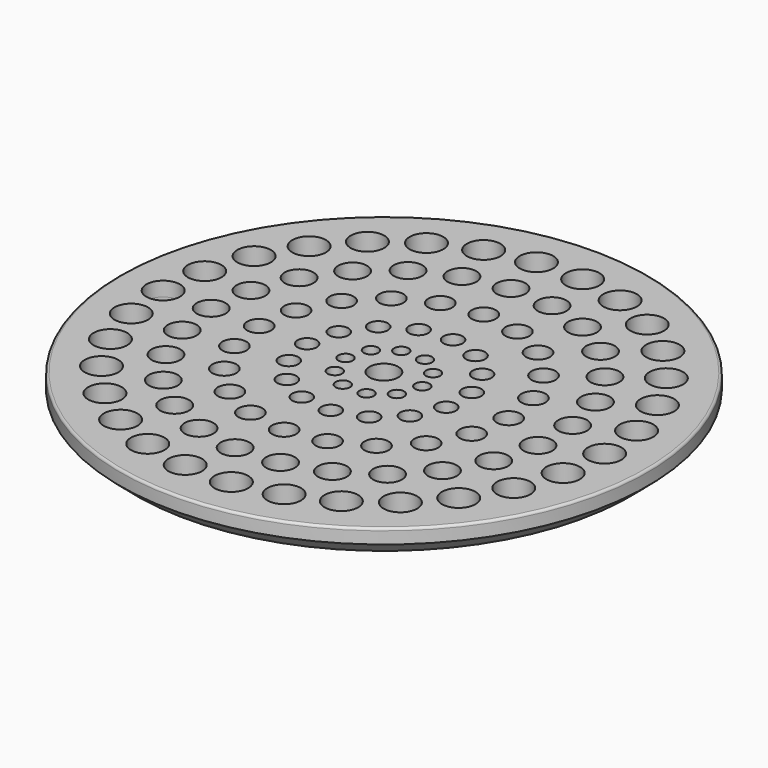
from build123d import *

# Parameters (mm, degrees)
SKETCH020_R           = 3.5
POCKET008_DEPTH       = 100
POCKET008_DEPTH_BACK  = 100
SKETCH021_R           = 3
POCKET009_DEPTH       = 100
POCKET009_DEPTH_BACK  = 100
SKETCH022_R           = 2.5
POCKET010_DEPTH       = 100
POCKET010_DEPTH_BACK  = 100
SKETCH023_R           = 2
POCKET011_DEPTH       = 100
POCKET011_DEPTH_BACK  = 100
SKETCH024_R           = 1.5
POCKET012_DEPTH       = 100
POCKET012_DEPTH_BACK  = 100
SKETCH025_R           = 3
POCKET013_DEPTH       = 100
POCKET013_DEPTH_BACK  = 100
POLARPATTERN005_COUNT = 30
POLARPATTERN006_COUNT = 25
POLARPATTERN007_COUNT = 20
POLARPATTERN008_COUNT = 15
POLARPATTERN009_COUNT = 10
FILLET_R              = 0.5


with BuildPart() as part:
    # Sketch003 → Revolution001 (revolve)
    with BuildSketch(Plane.XZ):
        Polygon((0, 3), (-55, 3), (-55, 0), (-51.5, -3), (0, -3), align=None)
    revolve(axis=Axis((0, 0, 0), (0, 0, 1)))

    # Sketch020 → Pocket008 (cut, two sides)
    with BuildSketch(Plane.XY) as pocket008_sk:
        with Locations((-46, 0)):
            Circle(SKETCH020_R)
    pocket008 = extrude(amount=-POCKET008_DEPTH, mode=Mode.SUBTRACT) + extrude(pocket008_sk.sketch, amount=POCKET008_DEPTH_BACK, mode=Mode.SUBTRACT)

    # Sketch021 → Pocket009 (cut, two sides)
    with BuildSketch(Plane.XY) as pocket009_sk:
        with Locations((-36, 0)):
            Circle(SKETCH021_R)
    pocket009 = extrude(amount=-POCKET009_DEPTH, mode=Mode.SUBTRACT) + extrude(pocket009_sk.sketch, amount=POCKET009_DEPTH_BACK, mode=Mode.SUBTRACT)

    # Sketch022 → Pocket010 (cut, two sides)
    with BuildSketch(Plane.XY) as pocket010_sk:
        with Locations((-26, 0)):
            Circle(SKETCH022_R)
    pocket010 = extrude(amount=-POCKET010_DEPTH, mode=Mode.SUBTRACT) + extrude(pocket010_sk.sketch, amount=POCKET010_DEPTH_BACK, mode=Mode.SUBTRACT)

    # Sketch023 → Pocket011 (cut, two sides)
    with BuildSketch(Plane.XY) as pocket011_sk:
        with Locations((-16, 0)):
            Circle(SKETCH023_R)
    pocket011 = extrude(amount=-POCKET011_DEPTH, mode=Mode.SUBTRACT) + extrude(pocket011_sk.sketch, amount=POCKET011_DEPTH_BACK, mode=Mode.SUBTRACT)

    # Sketch024 → Pocket012 (cut, two sides)
    with BuildSketch(Plane.XY) as pocket012_sk:
        with Locations((-8, 0)):
            Circle(SKETCH024_R)
    pocket012 = extrude(amount=-POCKET012_DEPTH, mode=Mode.SUBTRACT) + extrude(pocket012_sk.sketch, amount=POCKET012_DEPTH_BACK, mode=Mode.SUBTRACT)

    # Sketch025 → Pocket013 (cut, two sides)
    with BuildSketch(Plane.XY) as pocket013_sk:
        Circle(SKETCH025_R)
    extrude(amount=-POCKET013_DEPTH, mode=Mode.SUBTRACT)
    extrude(pocket013_sk.sketch, amount=POCKET013_DEPTH_BACK, mode=Mode.SUBTRACT)

    # PolarPattern005: Pocket008 ×30 about axis
    polarpattern005_axis = Axis((0, 0, 0), (0, 0, 1))
    for i in range(1, POLARPATTERN005_COUNT):
        add(pocket008.rotate(polarpattern005_axis, i * 360 / POLARPATTERN005_COUNT), mode=Mode.SUBTRACT)

    # PolarPattern006: Pocket009 ×25 about axis
    polarpattern006_axis = Axis((0, 0, 0), (0, 0, 1))
    for i in range(1, POLARPATTERN006_COUNT):
        add(pocket009.rotate(polarpattern006_axis, i * 360 / POLARPATTERN006_COUNT), mode=Mode.SUBTRACT)

    # PolarPattern007: Pocket010 ×20 about axis
    polarpattern007_axis = Axis((0, 0, 0), (0, 0, 1))
    for i in range(1, POLARPATTERN007_COUNT):
        add(pocket010.rotate(polarpattern007_axis, i * 360 / POLARPATTERN007_COUNT), mode=Mode.SUBTRACT)

    # PolarPattern008: Pocket011 ×15 about axis
    polarpattern008_axis = Axis((0, 0, 0), (0, 0, 1))
    for i in range(1, POLARPATTERN008_COUNT):
        add(pocket011.rotate(polarpattern008_axis, i * 360 / POLARPATTERN008_COUNT), mode=Mode.SUBTRACT)

    # PolarPattern009: Pocket012 ×10 about axis
    polarpattern009_axis = Axis((0, 0, 0), (0, 0, 1))
    for i in range(1, POLARPATTERN009_COUNT):
        add(pocket012.rotate(polarpattern009_axis, i * 360 / POLARPATTERN009_COUNT), mode=Mode.SUBTRACT)

    # Fillet
    fillet_edges = [part.edges().sort_by_distance(p)[0] for p in [
        (55, 0, 3),
    ]]
    fillet(fillet_edges, radius=FILLET_R)


solid = part.part
